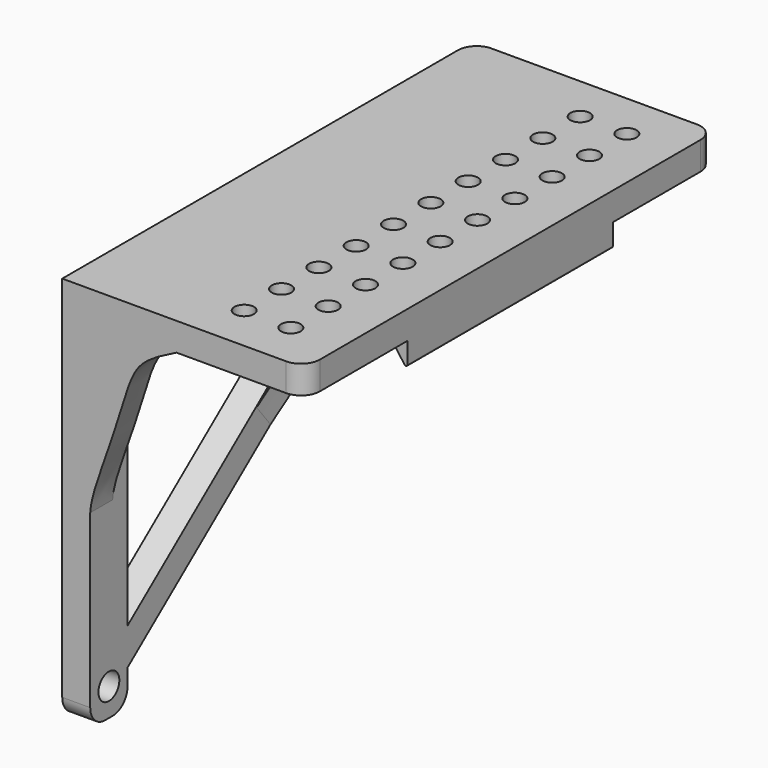
from build123d import *

# Parameters (mm, degrees)
CYLINDER_R                                = 2.8
CYLINDER_DEPTH                            = 10
CYLINDER001_R                             = 2.1
CYLINDER001_DEPTH                         = 10
ARRAY_X_COUNT                             = 2
ARRAY_X_PITCH                             = 10
ARRAY_Y_COUNT                             = 10
ARRAY_Y_PITCH                             = 10
EXTRUDE002_DEPTH                          = 6
EXTRUDE_DEPTH                             = 6
EXTRUDE003_DEPTH                          = 6
EXTRUDE003_ONTO_SKETCH003_PLACEMENT_ANGLE = 218.349863
EXTRUDE004_DEPTH                          = 27.5
BOX002_W                                  = 52
BOX002_H                                  = 110
BOX002_DEPTH                              = 6
FILLET001_R                               = 4
BOX_W                                     = 6
BOX_H                                     = 10
BOX_DEPTH                                 = 77
FILLET_R                                  = 4


with BuildPart() as obj1:
    # Cylinder → Cylinder (new body)
    with BuildSketch(Plane(origin=(0, 5, 6), x_dir=(0, 0, -1), z_dir=(1, 0, 0))):
        Circle(CYLINDER_R)
    extrude(amount=CYLINDER_DEPTH)


with BuildPart() as hole_fusion:
    # Cylinder001 → Cylinder001 (new body)
    with BuildSketch(Plane(origin=(31, 100, 77), x_dir=(1, 0, 0), z_dir=(0, 0, 1))):
        Circle(CYLINDER001_R)
    extrude(amount=CYLINDER001_DEPTH)

    # Array X: hole fusion ×2


with BuildPart() as hole_fusion_1:
    add(hole_fusion.part)
    with Locations(*[(i * ARRAY_X_PITCH, 0, 0) for i in range(1, ARRAY_X_COUNT)]):
        add(hole_fusion.part)

    # Array Y: hole fusion ×10


with BuildPart() as hole_fusion_2:
    add(hole_fusion_1.part)
    with Locations(*[(0, -i * ARRAY_Y_PITCH, 0) for i in range(1, ARRAY_Y_COUNT)]):
        add(hole_fusion_1.part)

    # Fusion002: union obj1
    add(obj1.part)


with BuildPart() as extrude002:
    # Sketch002 (on Face3 of Box) → Extrude002 (new body)
    with BuildSketch(Plane.XZ):
        with BuildLine():
            Line((6, 77), (6, 40.7842))
            add(Edge.make_bspline(
                [(24.491804, 77), (18.344801, 74.084994), (15.1304, 70.8278), (12.7356, 62.7726), (9.57887, 52.867), (6.20441, 44.0498), (6, 40.7842)],
                knots=[0, 0, 0, 0, 0.25, 0.5, 0.75, 1, 1, 1, 1], degree=3))
            Line((24.491804, 77), (6, 77))
        make_face()
    extrude(amount=-EXTRUDE002_DEPTH)


with BuildPart() as extrude_body:
    # Sketch → Extrude (new body)
    with BuildSketch(Plane.YZ):
        Polygon((10, 7.506167), (97.837182, 77), (87.837182, 77), (10, 15.417832), align=None)
    extrude(amount=EXTRUDE_DEPTH)


with BuildPart() as extrude003:
    # Sketch003 as drawn → Extrude003 (new)
    with BuildSketch(Plane.XY):
        with BuildLine():
            Line((6, -124.612947), (25.570908, -124.612947))
            add(Edge.make_bspline(
                [(25.570908, -124.612947), (19.0033, -119.544), (12.8874, -109.838), (10.8931, -98.9357), (7.03744, -82.8483), (6, -61.442675)],
                knots=[0, 0, 0, 0, 0.333333, 0.666667, 1, 1, 1, 1], degree=3))
            Line((6, -61.442675), (6, -124.612947))
        make_face()
    extrude(amount=-EXTRUDE003_DEPTH)


with BuildPart() as extrude003_1:
    # Extrude003 onto Sketch003 placement: moved
    add(extrude003.part.moved(Location((0, 0.111137, -0.31757))).rotate(Axis((0, 0.111137, -0.31757), (1, 0, 0)), EXTRUDE003_ONTO_SKETCH003_PLACEMENT_ANGLE))


with BuildPart() as extrude004:
    # Sketch004 → Extrude004 (new body, symmetric)
    with BuildSketch(Plane.XZ.offset(-55)):
        with BuildLine():
            Line((52, 77), (52, 72.5))
            ThreePointArc((51.345662, 72.29121), (51.749101, 72.156579), (52, 72.5))
            Line((48, 77), (51.345662, 72.29121))
            Line((48, 77), (52, 77))
        make_face()
    extrude(amount=EXTRUDE004_DEPTH, both=True)


with BuildPart() as top_cube_fillet:
    # Box002 → Box002 (new body)
    with BuildSketch(Plane.XY.offset(77)):
        with Locations((26, 55)):
            Rectangle(BOX002_W, BOX002_H)
    extrude(amount=BOX002_DEPTH)

    # Fillet001
    fillet001_edges = [top_cube_fillet.edges().sort_by_distance(p)[0] for p in [
        (0, 110, 80),
        (52, 0, 80),
        (52, 110, 80),
    ]]
    fillet(fillet001_edges, radius=FILLET001_R)


with BuildPart() as body_cut:
    # Box → Box (new body)
    with BuildSketch(Plane.XY):
        with Locations((3, 5)):
            Rectangle(BOX_W, BOX_H)
    extrude(amount=BOX_DEPTH)

    # Fillet
    fillet_edges = [body_cut.edges().sort_by_distance(p)[0] for p in [
        (3, 0, 0),
        (3, 10, 0),
    ]]
    fillet(fillet_edges, radius=FILLET_R)

    # Fusion: union top cube fillet
    add(top_cube_fillet.part)

    # Fusion001: union Extrude002, Extrude body, Extrude003, Extrude004
    add(extrude002.part)
    add(extrude_body.part)
    add(extrude003_1.part)
    add(extrude004.part)

    # Cut001: cut hole fusion
    add(hole_fusion_2.part, mode=Mode.SUBTRACT)


solid = body_cut.part
